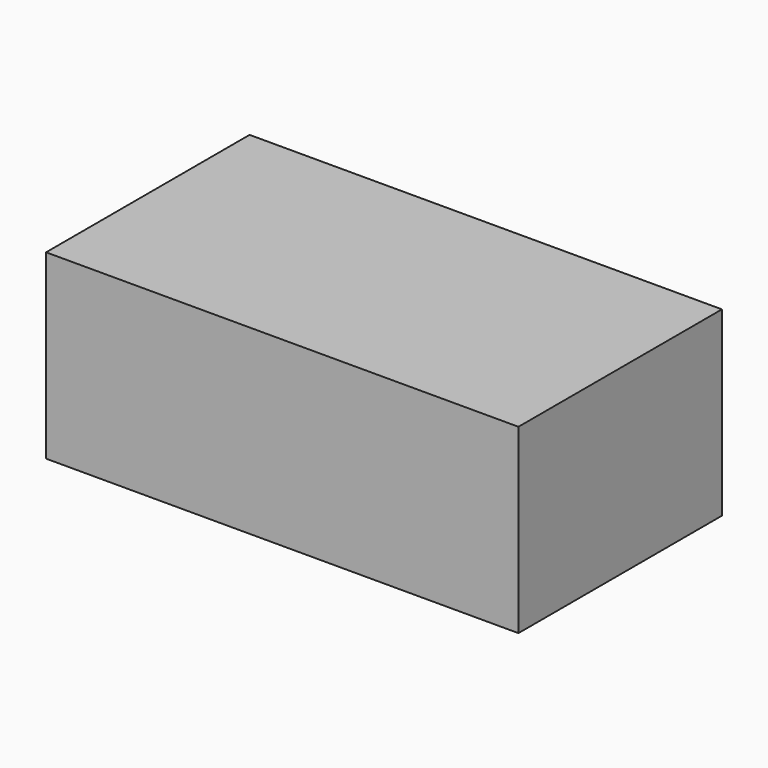
from build123d import *

# Parameters (mm, degrees)
SKETCH_W      = 130
SKETCH_H      = 70
EXTRUDE_DEPTH = 50


with BuildPart() as part:
    # Sketch → Extrude (new body)
    with BuildSketch(Plane.XY):
        Rectangle(SKETCH_W, SKETCH_H)
    extrude(amount=EXTRUDE_DEPTH)


solid = part.part
